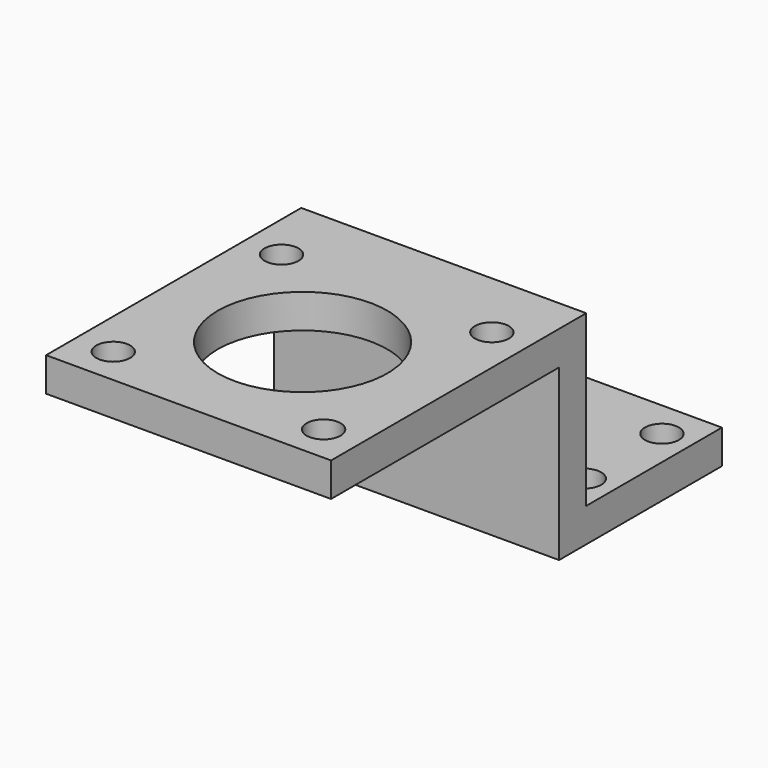
from build123d import *

# Parameters (mm, degrees)
F0_W     = 42
F0_H     = 42
F1_DEPTH = 5
F3_D     = 5
F4_W     = 42
F4_H     = 5
F5_DEPTH = 5
F6_W     = 42
F6_H     = 5
F7_DEPTH = 20
F8_W     = 42
F8_H     = 5
F8_H_2   = 25
F9_DEPTH = 5
F11_D    = 5
F13_D    = 25


with BuildPart() as f1:
    # F0 (on Top) → F1 (new body)
    with BuildSketch(Plane.XY):
        Rectangle(F0_W, F0_H)
    extrude(amount=F1_DEPTH)

    # F3 (through all)
    with Locations(Plane.XY.offset(5)):
        with Locations((-15.5, 15.5), (15.5, 15.5), (15.5, -15.5), (-15.5, -15.5)):
            Hole(F3_D / 2)

    # F4 (on face) → F5 (join)
    with BuildSketch(Plane(origin=(0, 21, 0), x_dir=(-1, 0, 0), z_dir=(0, 1, 0))):
        with Locations((0, 2.5)):
            Rectangle(F4_W, F4_H)
    extrude(amount=F5_DEPTH)

    # F6 (on face) → F7 (join)
    with BuildSketch(Plane(origin=(0, 0, 0), x_dir=(1, 0, 0), z_dir=(0, 0, -1))):
        with Locations((0, -23.5)):
            Rectangle(F6_W, F6_H)
    extrude(amount=F7_DEPTH)

    # F8 (on face) → F9 (join)
    with BuildSketch(Plane(origin=(0, 0, -20), x_dir=(1, 0, 0), z_dir=(0, 0, -1))):
        with Locations((0, -23.5)):
            Rectangle(F8_W, F8_H)
        with Locations((0, -38.5)):
            Rectangle(F8_W, F8_H_2)
    extrude(amount=F9_DEPTH)

    # F11 (through all)
    with Locations(Plane(origin=(0, 0, -25), x_dir=(1, 0, 0), z_dir=(0, 0, -1))):
        with Locations((-16.56834, -31.176092), (16.56834, -31.176092), (16.56834, -45.494268), (-16.56834, -45.494268)):
            Hole(F11_D / 2)

    # F13 (through all)
    with Locations(Plane(origin=(0, 0, 0), x_dir=(1, 0, 0), z_dir=(0, 0, -1))):
        with Locations((0, 0)):
            Hole(F13_D / 2)


solid = f1.part
